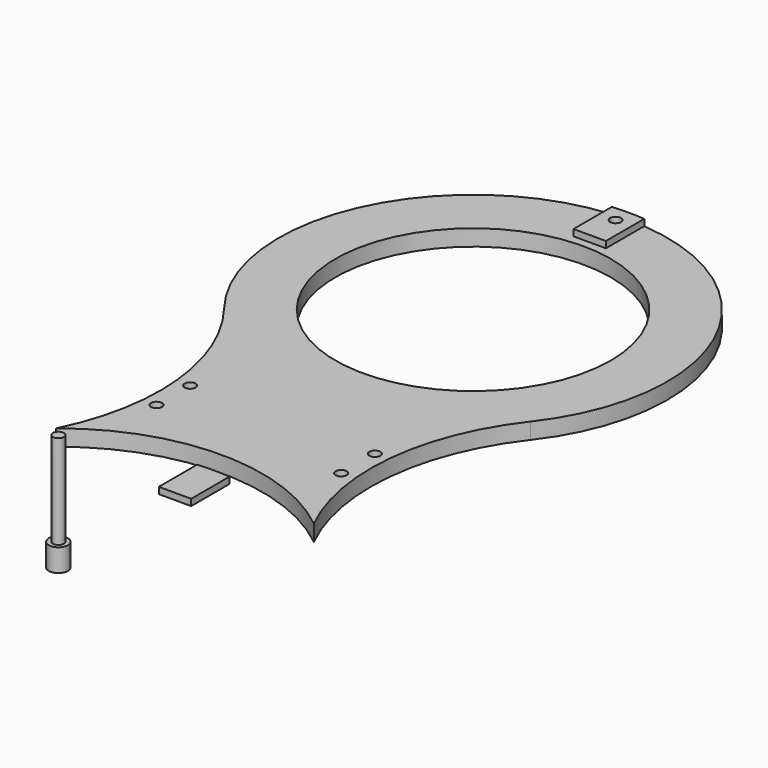
from build123d import *

# Parameters (mm, degrees)
CYLINDER_R        = 2.95
CYLINDER_DEPTH    = 7
CYLINDER001_R     = 1.7
CYLINDER001_DEPTH = 30
PAD023_DEPTH      = 2
SKETCH033_R       = 42.5
PAD024_DEPTH      = 5


with BuildPart() as m3bolthead:
    # Cylinder → Cylinder (new body)
    with BuildSketch(Plane.XY):
        Circle(CYLINDER_R)
    extrude(amount=CYLINDER_DEPTH)


with BuildPart() as m3bolt:
    # Cylinder001 → Cylinder001 (new body)
    with BuildSketch(Plane.XY.offset(6)):
        Circle(CYLINDER001_R)
    extrude(amount=CYLINDER001_DEPTH)

    # Fusion: union M3BoltHead
    add(m3bolthead.part)


with BuildPart() as obj1:
    # Sketch032 → Pad023 (new body)
    with BuildSketch(Plane.XY):
        with BuildLine():
            ThreePointArc((5, 59.791304), (0, 60), (-5, 59.791304))
            Line((-5, 45), (-5, 59.791304))
            Line((5, 45), (-5, 45))
            Line((5, 59.791304), (5, 45))
        make_face()
    extrude(amount=PAD023_DEPTH)


with BuildPart() as clone_of_m3bolt060:
    # Clone194 base: copy of M3Bolt
    add(m3bolt.part)


with BuildPart() as clone_of_m3bolt060_1:
    # Clone194 placement: moved
    add(clone_of_m3bolt060.part.moved(Location((28.5, 73.5, -31))))


with BuildPart() as clone_of_m3bolt061:
    # Clone195 base: copy of M3Bolt
    add(m3bolt.part)


with BuildPart() as clone_of_m3bolt061_1:
    # Clone195 placement: moved
    add(clone_of_m3bolt061.part.moved(Location((-28.5, 73.5, -31))))


with BuildPart() as clone_of_m3bolt062:
    # Clone196 base: copy of M3Bolt
    add(m3bolt.part)


with BuildPart() as clone_of_m3bolt062_1:
    # Clone196 placement: moved
    add(clone_of_m3bolt062.part.moved(Location((-28.5, 86.5, -31))))


with BuildPart() as clone_of_m3bolt063:
    # Clone197 base: copy of M3Bolt
    add(m3bolt.part)


with BuildPart() as clone_of_m3bolt063_1:
    # Clone197 placement: moved
    add(clone_of_m3bolt063.part.moved(Location((0, 215, -4))))


with BuildPart() as fusion071:
    # Clone193 base: copy of M3Bolt
    add(m3bolt.part)


with BuildPart() as fusion071_1:
    # Clone193 placement: moved
    add(fusion071.part.moved(Location((28.5, 86.5, -31))))

    # Fusion071: union Clone of M3Bolt060, Clone of M3Bolt061, Clone of M3Bolt062, Clone of M3Bolt063
    add(clone_of_m3bolt060_1.part)
    add(clone_of_m3bolt061_1.part)
    add(clone_of_m3bolt062_1.part)
    add(clone_of_m3bolt063_1.part)


with BuildPart() as obj2:
    # Clone188 base: copy of obj1
    add(obj1.part)


with BuildPart() as obj2_1:
    # Clone188 placement: moved
    add(obj2.part.moved(Location((0, 160, 5))))


with BuildPart() as obj3:
    # Sketch033 → Pad024 (new body)
    with BuildSketch(Plane.XY):
        with BuildLine():
            ThreePointArc((47.29357, 123.07686), (32.82521, 87.047884), (39.782, 48.850716))
            ThreePointArc((39.782, 48.850716), (0, 63), (-39.782, 48.850716))
            ThreePointArc((-39.782, 48.850716), (-32.82521, 87.047884), (-47.29357, 123.07686))
            ThreePointArc((47.29357, 123.07686), (0, 220), (-47.29357, 123.07686))
        make_face()
        with Locations((0, 160)):
            Circle(SKETCH033_R, mode=Mode.SUBTRACT)
    extrude(amount=PAD024_DEPTH)

    # Fusion069: union obj2
    add(obj2_1.part)

    # Cut060: cut Fusion071
    add(fusion071_1.part, mode=Mode.SUBTRACT)


solid = Compound([m3bolt.part, obj1.part, obj3.part])
